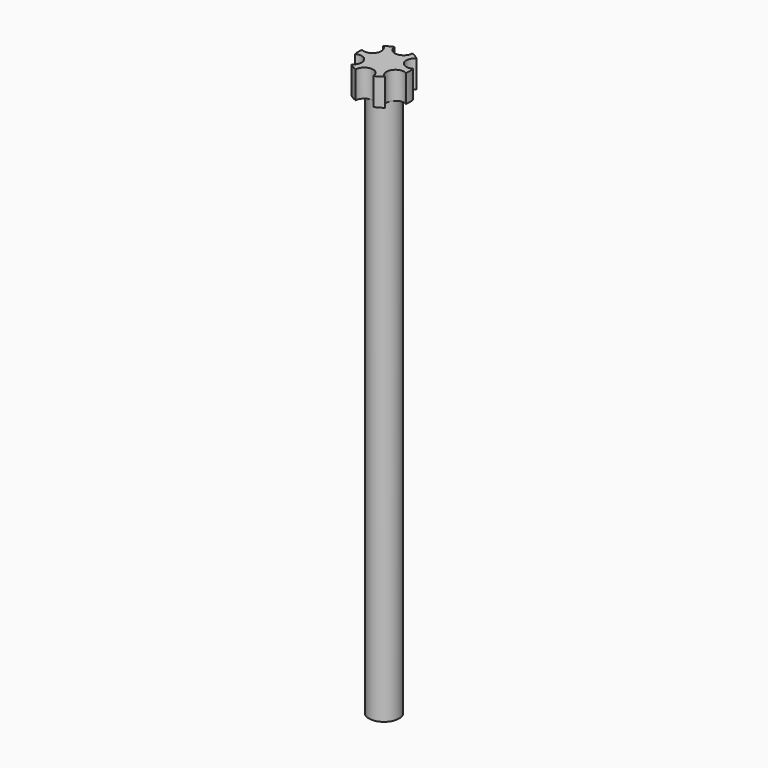
from build123d import *

# Parameters (mm, degrees)
F1_DEPTH = 1
F2_R     = 0.55
F3_DEPTH = 20


with BuildPart() as f1:
    # F0 (on Top) → F1 (new body)
    with BuildSketch(Plane.XY):
        with BuildLine():
            ThreePointArc((0.324918, 0.892708), (0, 0.575), (-0.324918, 0.892708))
            ThreePointArc((-0.324918, 0.892708), (-0.475, 0.822724), (-0.610649, 0.727742))
            ThreePointArc((-0.610649, 0.727742), (-0.497965, 0.2875), (-0.935567, 0.164967))
            ThreePointArc((-0.935567, 0.164967), (-0.95, 0), (-0.935567, -0.164967))
            ThreePointArc((-0.935567, -0.164967), (-0.497965, -0.2875), (-0.610649, -0.727742))
            ThreePointArc((-0.610649, -0.727742), (-0.475, -0.822724), (-0.324918, -0.892708))
            ThreePointArc((-0.324918, -0.892708), (0, -0.575), (0.324918, -0.892708))
            ThreePointArc((0.324918, -0.892708), (0.475, -0.822724), (0.610649, -0.727742))
            ThreePointArc((0.610649, -0.727742), (0.497965, -0.2875), (0.935567, -0.164967))
            ThreePointArc((0.935567, -0.164967), (0.95, 0), (0.935567, 0.164967))
            ThreePointArc((0.935567, 0.164967), (0.497965, 0.2875), (0.610649, 0.727742))
            ThreePointArc((0.610649, 0.727742), (0.475, 0.822724), (0.324918, 0.892708))
        make_face()
    extrude(amount=F1_DEPTH)

    # F2 (on Top) → F3 (join)
    with BuildSketch(Plane.XY):
        Circle(F2_R)
    extrude(amount=-F3_DEPTH)


solid = f1.part
